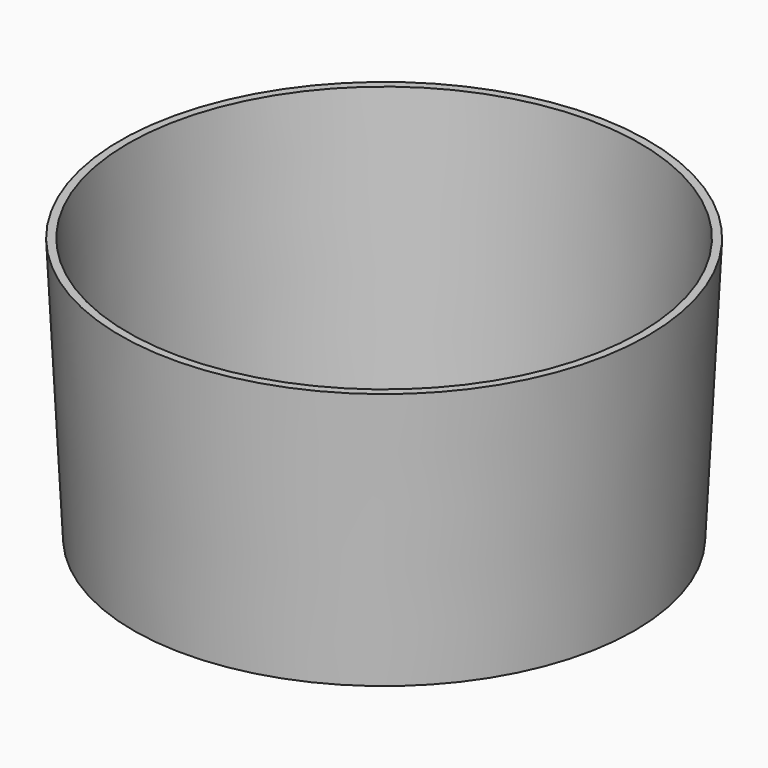
from build123d import *

# Parameters (mm, degrees)
F0_R     = 25
F1_DEPTH = 25
F1_TAPER = 2.87
F2_T     = -0.75


with BuildPart() as f1:
    # F0 (on Top) → F1 (new body)
    with BuildSketch(Plane.XY):
        Circle(F0_R)
    extrude(amount=-F1_DEPTH, taper=F1_TAPER)

    # F2
    f2_openings = [f1.faces().sort_by_distance(p)[0] for p in [
        (0, 0, 0),
        (0, 0, -25),
    ]]
    offset(amount=F2_T, openings=f2_openings, kind=Kind.INTERSECTION)


solid = f1.part
